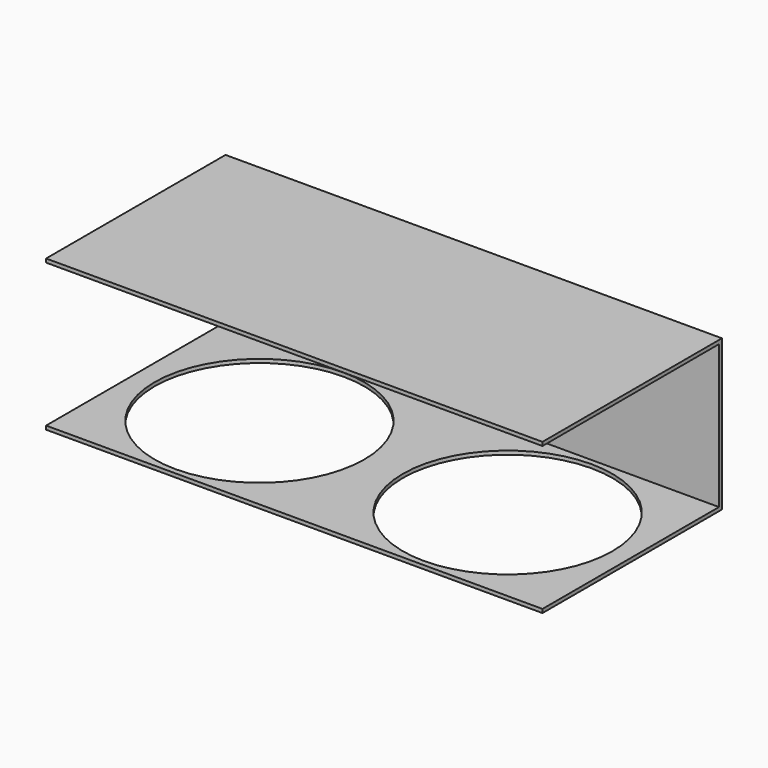
from build123d import *

# Parameters (mm, degrees)
F0_W          = 270
F0_H          = 2
F0_H_2        = 120
F0_R          = 57
F1_DEPTH      = 2
F2_DEPTH      = 80
F3_W          = 270
F3_H          = 2
F4_DEPTH      = 120
F4_DEPTH_BACK = 2


with BuildPart() as f1:
    # F0 (on Top) → F1 (new body)
    with BuildSketch(Plane.XY):
        with Locations((13.665279, 62.509182)):
            Rectangle(F0_W, F0_H)
        with Locations((13.665279, 1.509182)):
            Rectangle(F0_W, F0_H_2)
        with Locations((-53.288383, 1.509182)):
            Circle(F0_R, mode=Mode.SUBTRACT)
        with Locations((81.711617, 1.509182)):
            Circle(F0_R, mode=Mode.SUBTRACT)
    extrude(amount=F1_DEPTH)

    # F0 (on Top) → F2 (join)
    with BuildSketch(Plane.XY):
        with Locations((13.665279, 62.509182)):
            Rectangle(F0_W, F0_H)
    extrude(amount=F2_DEPTH)

    # F3 (on face) → F4 (join, two sides)
    with BuildSketch(Plane.XZ.offset(-61.509182)) as f4_sk:
        with Locations((13.665279, 81)):
            Rectangle(F3_W, F3_H)
    extrude(amount=F4_DEPTH)
    extrude(f4_sk.sketch, amount=-F4_DEPTH_BACK)


solid = f1.part
